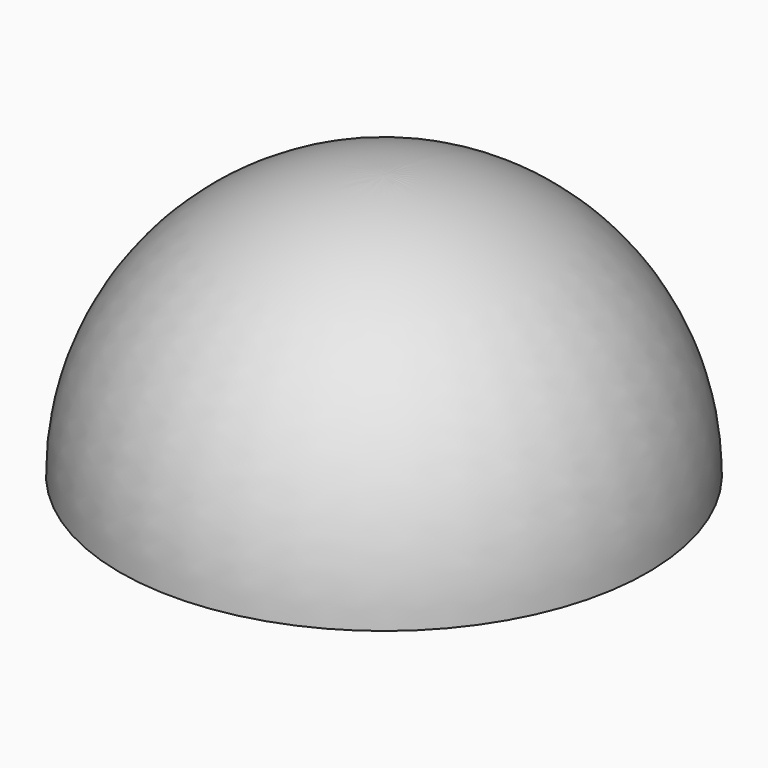
from build123d import *


with BuildPart() as f1:
    # F0 (on Right) → F1 (revolve)
    with BuildSketch(Plane.YZ):
        with BuildLine():
            ThreePointArc((0, 16), (11.313708, 11.313708), (16, 0))
            Line((16, 0), (18, 0))
            ThreePointArc((18, 0), (12.727922, 12.727922), (0, 18))
            Line((0, 18), (0, 16))
        make_face()
    revolve(axis=Axis((0, 0, 17), (0, 0, 1)))


solid = f1.part
